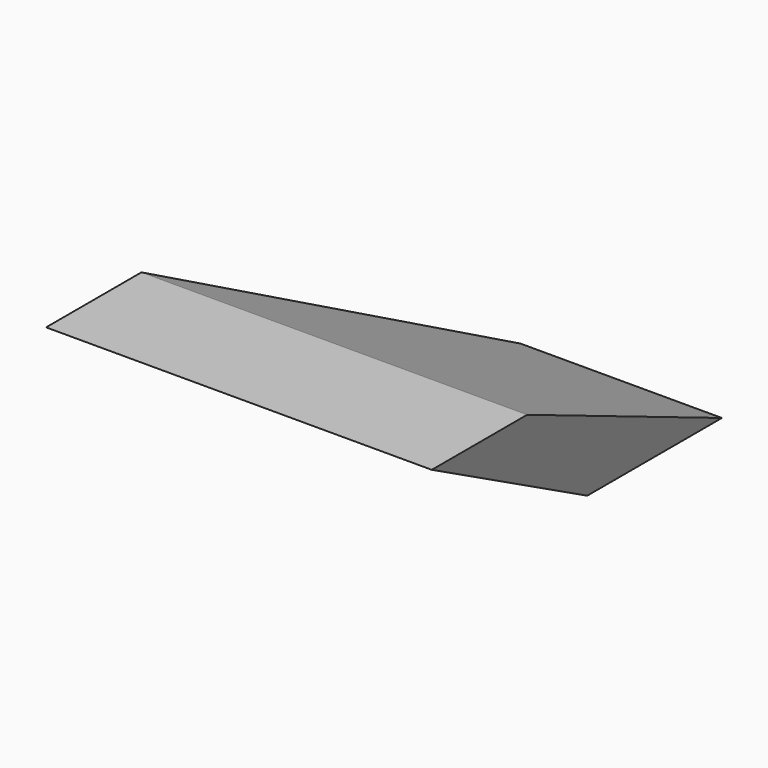
from build123d import *

# Parameters (mm, degrees)
F0_W = 40.453057
F0_H = 33.796222
F2_W = 77.450061
F2_H = 23.93345


with BuildPart() as f3:
    # F0 (on Top) → F3 section 0
    with BuildSketch(Plane.XY):
        with Locations((-30.083759, 23.554943)):
            Rectangle(F0_W, F0_H)
    # F2 (on offset) → F3 section 1
    with BuildSketch(Plane.XY.offset(25.4)):
        with Locations((-42.632396, -27.853574)):
            Rectangle(F2_W, F2_H)
    loft()


solid = f3.part
